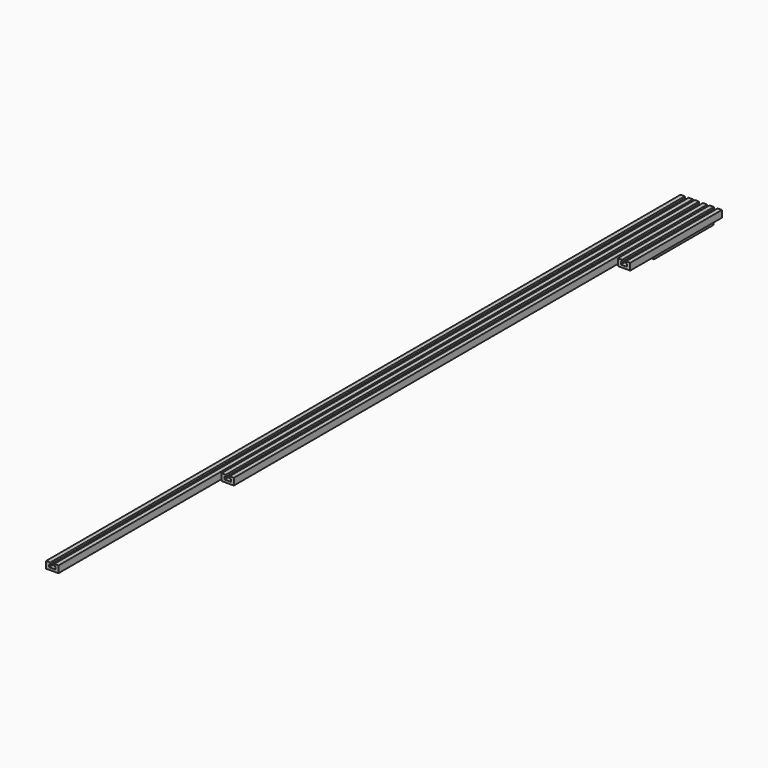
from build123d import *

# Parameters (mm, degrees)
F4_DEPTH = 3251.2
F5_DEPTH = 2425.7
F6_DEPTH = 469.9
F7_DEPTH = 304.8


with BuildPart() as f4:
    # F1 (on Front) → F4 (new body)
    with BuildSketch(Plane.XZ):
        Polygon((-84.057853, 0), (-58.657853, 0), (-33.257853, 0), (-33.257853, 28.099747), (-50.733053, 28.099747), (-50.733053, 20.149547), (-45.957853, 20.149547), (-45.957853, 9.56893), (-71.357853, 9.56893), (-71.357853, 20.149547), (-66.582653, 20.149547), (-66.582653, 28.099747), (-84.057853, 28.099747), align=None)
    extrude(amount=F4_DEPTH)


with BuildPart() as f5:
    # F0 (on Front) → F5 (new body)
    with BuildSketch(Plane.XZ):
        Polygon((-25.4, 0), (0, 0), (25.4, 0), (25.4, 28.099747), (7.9248, 28.099747), (7.9248, 20.149547), (12.7, 20.149547), (12.7, 9.56893), (-12.7, 9.56893), (-12.7, 20.149547), (-7.9248, 20.149547), (-7.9248, 28.099747), (-25.4, 28.099747), align=None)
    extrude(amount=F5_DEPTH)


with BuildPart() as f6:
    # F2 (on Front) → F6 (new body)
    with BuildSketch(Plane.XZ):
        Polygon((34.774553, 0.244995), (60.174553, 0.244995), (85.574553, 0.244995), (85.574553, 28.344742), (68.099353, 28.344742), (68.099353, 20.394542), (72.874553, 20.394542), (72.874553, 9.813925), (47.474553, 9.813925), (47.474553, 20.394542), (52.249753, 20.394542), (52.249753, 28.344742), (34.774553, 28.344742), align=None)
    extrude(amount=F6_DEPTH)


with BuildPart() as f7:
    # F3 (on Front) → F7 (new body)
    with BuildSketch(Plane.XZ):
        Polygon((0, -37.477192), (25.4, -37.477192), (50.8, -37.477192), (50.8, -9.377445), (33.3248, -9.377445), (33.3248, -17.327645), (38.1, -17.327645), (38.1, -27.908261), (12.7, -27.908261), (12.7, -17.327645), (17.4752, -17.327645), (17.4752, -9.377445), (0, -9.377445), align=None)
    extrude(amount=F7_DEPTH)


solid = Compound([f4.part, f5.part, f6.part, f7.part])
